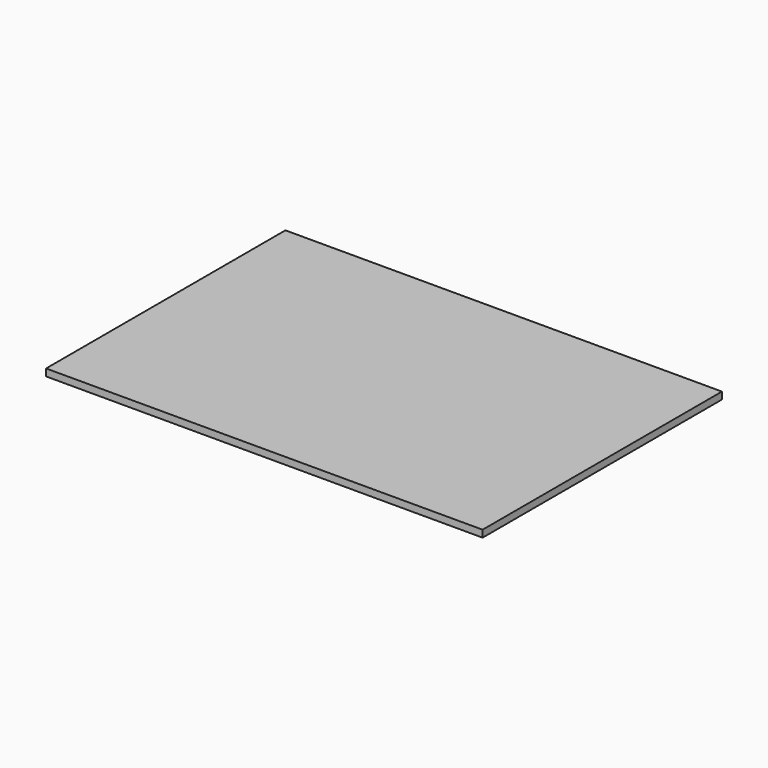
from build123d import *

# Parameters (mm, degrees)
SKETCH_W  = 394
SKETCH_H  = 270
PAD_DEPTH = 6.35


with BuildPart() as part:
    # Sketch → Pad (new body)
    with BuildSketch(Plane.XY):
        Rectangle(SKETCH_W, SKETCH_H)
    extrude(amount=PAD_DEPTH)


solid = part.part
